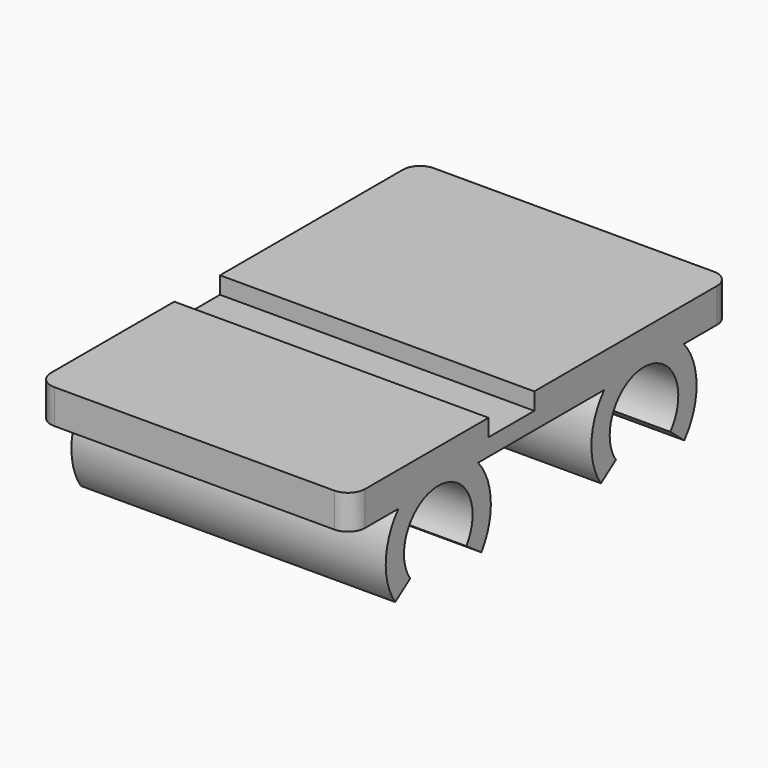
from build123d import *

# Parameters (mm, degrees)
F1_DEPTH = 6
F2_W     = 55
F2_H     = 10
F3_DEPTH = 3
F5_DEPTH = 55


with BuildPart() as f1:
    # F0 (on Top) → F1 (new body)
    with BuildSketch(Plane.XY):
        with BuildLine():
            ThreePointArc((0, 3), (0.87868, 0.87868), (3, 0))
            Line((3, 0), (52, 0))
            ThreePointArc((52, 0), (54.12132, 0.87868), (55, 3))
            Line((55, 3), (55, 80))
            ThreePointArc((55, 80), (54.12132, 82.12132), (52, 83))
            Line((52, 83), (3, 83))
            ThreePointArc((3, 83), (0.87868, 82.12132), (0, 80))
            Line((0, 80), (0, 3))
        make_face()
    extrude(amount=F1_DEPTH)

    # F2 (on face) → F3 (cut)
    with BuildSketch(Plane.XY.offset(6)):
        with Locations((27.5, 35)):
            Rectangle(F2_W, F2_H)
    extrude(amount=-F3_DEPTH, mode=Mode.SUBTRACT)

    # F4 (on face) → F5 (join, through all)
    with BuildSketch(Plane(origin=(0, 0, 0), x_dir=(0, -1, 0), z_dir=(-1, 0, 0))):
        with BuildLine():
            ThreePointArc((-69.745333, -12.320907), (-64.327145, -0.007138), (-57.85636, -11.801823))
            Line((-57.85636, -11.801823), (-54.579751, -14.096129))
            ThreePointArc((-54.579751, -14.096129), (-64.501623, 3.989055), (-72.809511, -14.892058))
            Line((-72.809511, -14.892058), (-69.745333, -12.320907))
        make_face()
        with BuildLine():
            ThreePointArc((-25.14364, -11.801823), (-19, 0), (-12.85636, -11.801823))
            Line((-12.85636, -11.801823), (-9.579751, -14.096129))
            ThreePointArc((-9.579751, -14.096129), (-19, 4), (-28.420249, -14.096129))
            Line((-28.420249, -14.096129), (-25.14364, -11.801823))
        make_face()
    extrude(amount=-F5_DEPTH)


solid = f1.part
